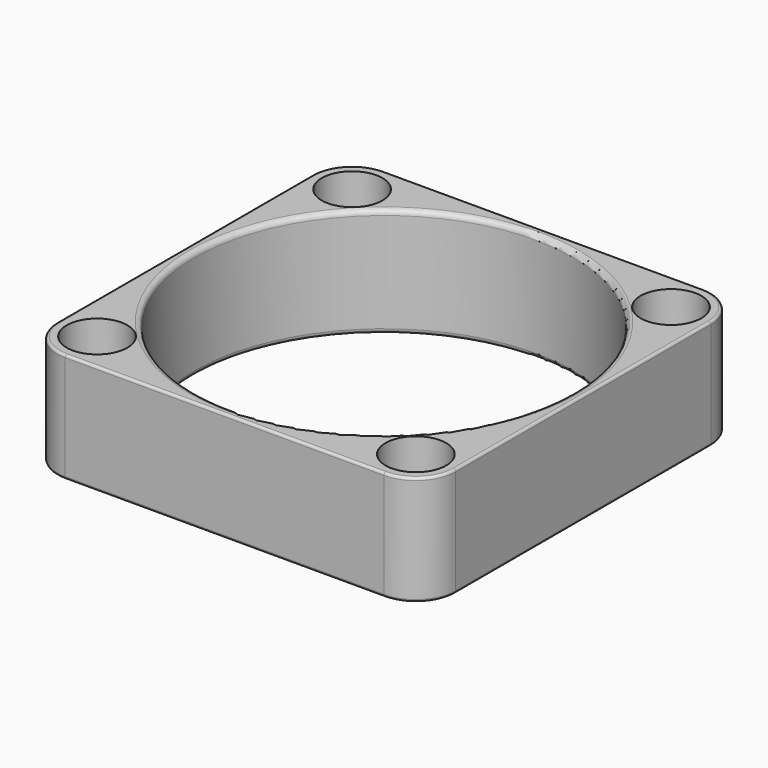
from build123d import *

# Parameters (mm, degrees)
SKETCH055_W         = 40
SKETCH055_H         = 40
PAD019_DEPTH        = 11
SKETCH053_R         = 19
POCKET014_DEPTH     = 11.001
HOLE004_D           = 3.9
HOLE004_DEPTH       = 25
HOLE004_CBORE_D     = 6.1
HOLE004_CBORE_DEPTH = 3.9
FILLET023_R         = 4
FILLET020_R         = 0.5
FILLET022_R         = 0.25


with BuildPart() as part:
    # Sketch055 → Pad019 (new body)
    with BuildSketch(Plane.XY):
        Rectangle(SKETCH055_W, SKETCH055_H)
    extrude(amount=PAD019_DEPTH)

    # Sketch053 (on Face6 of Pad019) → Pocket014 (cut, through all)
    with BuildSketch(Plane.XY.offset(11)):
        Circle(SKETCH053_R)
    extrude(amount=-POCKET014_DEPTH, mode=Mode.SUBTRACT)

    # Hole004
    with Locations(Plane.XY.offset(11)):
        with Locations((16, 16), (16, -16), (-16, 16), (-16, -16)):
            CounterBoreHole(HOLE004_D / 2, HOLE004_CBORE_D / 2, HOLE004_CBORE_DEPTH, depth=HOLE004_DEPTH)

    # Fillet023
    fillet023_edges = [part.edges().sort_by_distance(p)[0] for p in [
        (20, 20, 5.5),
        (-20, 20, 5.5),
        (-20, -20, 5.5),
        (20, -20, 5.5),
    ]]
    fillet(fillet023_edges, radius=FILLET023_R)

    # Fillet020
    fillet020_edges = [part.edges().sort_by_distance(p)[0] for p in [
        (-19, 0, 11),
        (19, 0, 5.5),
        (-19, 0, 0),
    ]]
    fillet(fillet020_edges, radius=FILLET020_R)

    # Fillet022
    fillet022_edges = [part.edges().sort_by_distance(p)[0] for p in [
        (0, -20, 0),
        (16, -20, 5.5),
        (-16, -20, 5.5),
        (0, -20, 11),
        (20, 0, 0),
        (20, 16, 5.5),
        (20, -16, 5.5),
        (20, 0, 11),
        (0, 20, 0),
        (-16, 20, 5.5),
        (16, 20, 5.5),
        (0, 20, 11),
        (-20, 0, 0),
        (-20, -16, 5.5),
        (-20, 16, 5.5),
        (-20, 0, 11),
    ]]
    fillet(fillet022_edges, radius=FILLET022_R)


solid = part.part
